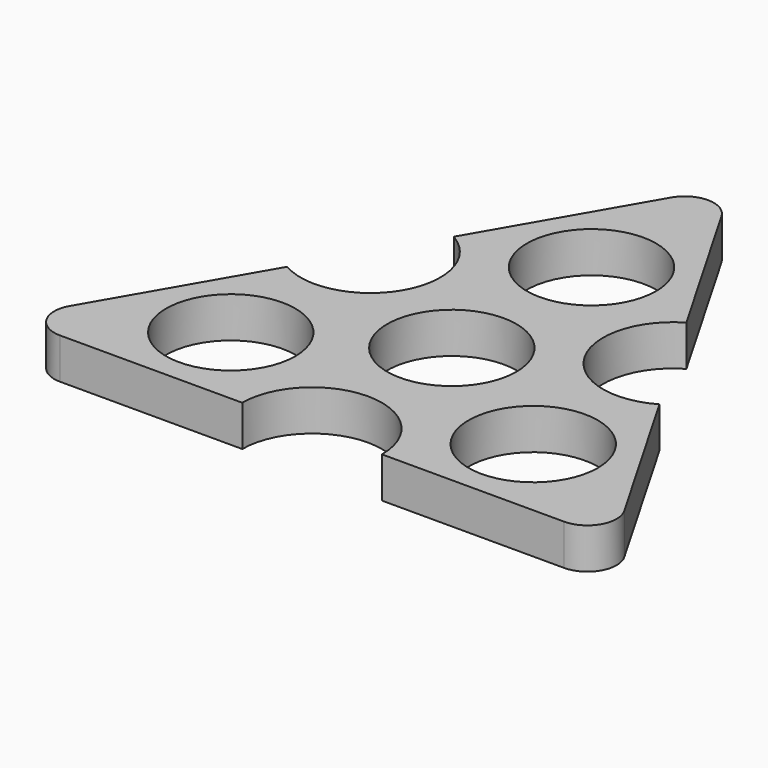
from build123d import *

# Parameters (mm, degrees)
F0_R     = 11.1
F1_DEPTH = 7
F2_R     = 5


with BuildPart() as f1:
    # F0 (on Top) → F1 (new body)
    with BuildSketch(Plane.XY):
        with BuildLine():
            Line((19.980762, 25.392305), (0, 60))
            Line((0, 60), (-19.980762, 25.392305))
            ThreePointArc((-19.980762, 25.392305), (-15.588457, 9), (-31.980762, 4.607695))
            Line((-31.980762, 4.607695), (-51.961524, -30))
            Line((-51.961524, -30), (-12, -30))
            ThreePointArc((-12, -30), (0, -18), (12, -30))
            Line((12, -30), (51.961524, -30))
            Line((51.961524, -30), (31.980762, 4.607695))
            ThreePointArc((31.980762, 4.607695), (15.588457, 9), (19.980762, 25.392305))
        make_face()
        with Locations((-25.980762, -15)):
            Circle(F0_R, mode=Mode.SUBTRACT)
        with Locations((25.980762, -15)):
            Circle(F0_R, mode=Mode.SUBTRACT)
        Circle(F0_R, mode=Mode.SUBTRACT)
        with Locations((0, 30)):
            Circle(F0_R, mode=Mode.SUBTRACT)
    extrude(amount=F1_DEPTH)

    # F2
    f2_edges = [f1.edges().sort_by_distance(p)[0] for p in [
        (0, 60, 3.5),
        (51.961524, -30, 3.5),
        (-51.961524, -30, 3.5),
    ]]
    fillet(f2_edges, radius=F2_R)


solid = f1.part
